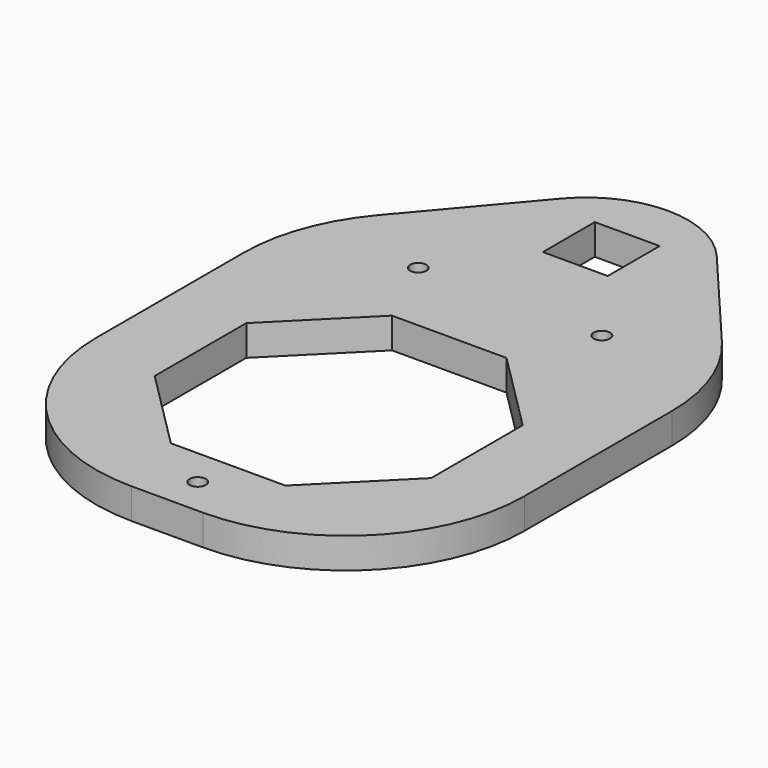
from build123d import *

# Parameters (mm, degrees)
F0_R     = 1.6
F0_W     = 12.72
F0_H     = 12.72
F1_DEPTH = 6
F2_R     = 35
F3_R     = 20


with BuildPart() as f1:
    # F0 (on Top) → F1 (new body)
    with BuildSketch(Plane.XY):
        Polygon((27.1, 118.708467), (-14.9, 69.1), (-14.9, -14.9), (69.1, -14.9), (69.1, 69.1), align=None)
        with Locations((27.1, -7.45)):
            Circle(F0_R, mode=Mode.SUBTRACT)
        Polygon((0, 15.874812), (0, 38.325188), (15.874812, 54.2), (38.325188, 54.2), (54.2, 38.325188), (54.2, 15.874812), (38.325188, 0), (15.874812, 0), align=None, mode=Mode.SUBTRACT)
        with Locations((9.1, 69.1)):
            Circle(F0_R, mode=Mode.SUBTRACT)
        with Locations((45.1, 69.1)):
            Circle(F0_R, mode=Mode.SUBTRACT)
        with Locations((27.1, 91.46)):
            Rectangle(F0_W, F0_H, mode=Mode.SUBTRACT)
    extrude(amount=F1_DEPTH)

    # F2
    f2_edges = [f1.edges().sort_by_distance(p)[0] for p in [
        (69.1, -14.9, 3),
        (-14.9, -14.9, 3),
        (-14.9, 69.1, 3),
        (69.1, 69.1, 3),
    ]]
    fillet(f2_edges, radius=F2_R)

    # F3
    f3_edges = [f1.edges().sort_by_distance(p)[0] for p in [
        (27.1, 118.708467, 3),
    ]]
    fillet(f3_edges, radius=F3_R)


solid = f1.part
